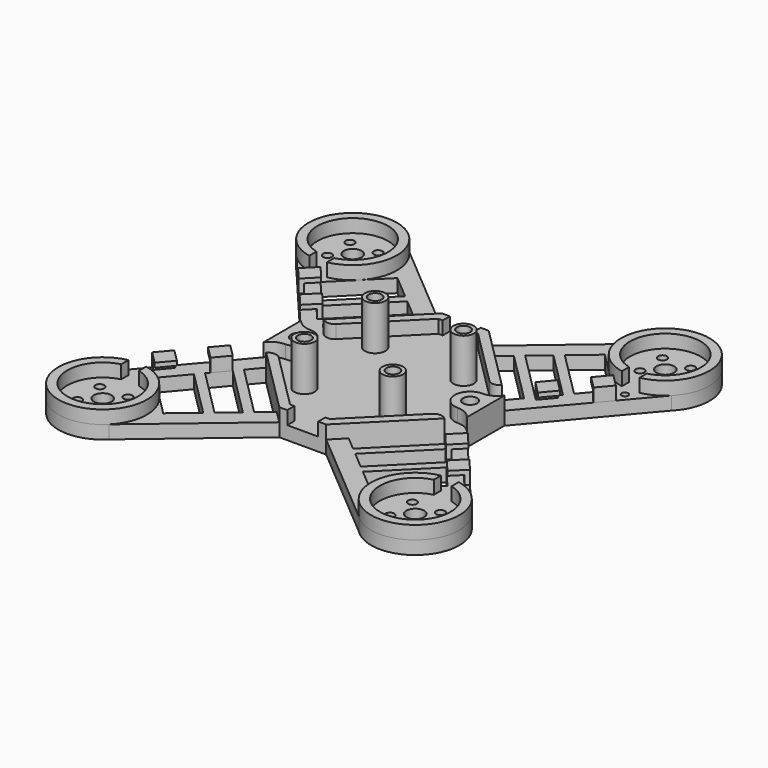
from build123d import *

# Parameters (mm, degrees)
PAD_DEPTH       = 3
SKETCH002_R     = 2
SKETCH002_R_2   = 1
POCKET_DEPTH    = 3
POCKET001_DEPTH = 3
SKETCH005_R     = 2.33
PAD001_DEPTH    = 10
PAD002_DEPTH    = 3
SKETCH009_R     = 10
SKETCH009_R_2   = 8
PAD003_DEPTH    = 3
SKETCH011_R     = 0.75
POCKET002_DEPTH = 3
PAD004_DEPTH    = 3
SKETCH007_R     = 1.5
POCKET003_DEPTH = 7
POCKET004_DEPTH = 6
SKETCH014_W     = 3.5
SKETCH014_H     = 2
POCKET005_DEPTH = 3
POCKET006_DEPTH = 3
SKETCH013_W     = 6
SKETCH013_H     = 2
POCKET007_DEPTH = 3
SKETCH012_W     = 4.5
SKETCH012_H     = 2
POCKET008_DEPTH = 3


with BuildPart() as pocket008:
    # Sketch001 → Pad (new body)
    with BuildSketch(Plane.XY):
        with BuildLine():
            Line((28.284271, 42.426407), (5.303301, 22.98097))
            Line((5.303301, 22.98097), (0, 22.98097))
            Line((0, 22.98097), (0, 0))
            Line((0, 0), (22.98097, 0))
            Line((22.98097, 0), (22.98097, 5.303301))
            Line((22.98097, 5.303301), (42.426407, 28.284271))
            ThreePointArc((42.426407, 28.284271), (42.426407, 42.426407), (28.284271, 42.426407))
        make_face()
    extrude(amount=PAD_DEPTH)

    # Sketch002 → Pocket (cut)
    with BuildSketch(Plane.XY.offset(3)):
        with Locations((35.355339, 35.355339)):
            Circle(SKETCH002_R)
        with Locations((38.53732, 38.53732)):
            Circle(SKETCH002_R_2)
        with Locations((32.173359, 38.53732)):
            Circle(SKETCH002_R_2)
        with Locations((32.173359, 32.173359)):
            Circle(SKETCH002_R_2)
        with Locations((38.53732, 32.173359)):
            Circle(SKETCH002_R_2)
    extrude(amount=-POCKET_DEPTH, mode=Mode.SUBTRACT)

    # Sketch003 → Pocket001 (cut)
    with BuildSketch(Plane.XY.offset(3)):
        Polygon((20.152543, 8.131728), (8.131728, 20.152543), (11.185273, 22.736312), (22.736312, 11.185273), align=None)
        Polygon((24.028197, 12.712046), (12.712046, 24.028197), (16.528977, 27.257908), (27.257908, 16.528977), align=None)
        Polygon((28.549792, 18.05575), (18.05575, 28.549792), (23.452375, 33.116168), (33.116168, 23.452375), align=None)
    extrude(amount=-POCKET001_DEPTH, mode=Mode.SUBTRACT)

    # Sketch005 → Pad001 (new body)
    with BuildSketch(Plane.XY.offset(3)):
        with Locations((10, 10)):
            Circle(SKETCH005_R)
    extrude(amount=PAD001_DEPTH)

    # Sketch004 → Pad002 (new body)
    with BuildSketch(Plane.XY.offset(3)):
        with BuildLine():
            Line((5.303301, 22.98097), (20.152543, 8.131728))
            ThreePointArc((17.324116, 8.131728), (18.73833, 7.545942), (20.152543, 8.131728))
            Line((17.324116, 8.131728), (4.474874, 20.98097))
            Line((0, 20.98097), (4.474874, 20.98097))
            Line((0, 22.98097), (0, 20.98097))
            Line((5.303301, 22.98097), (0, 22.98097))
        make_face()
        with BuildLine():
            Line((22.98097, 5.303301), (22.98097, 0))
            Line((22.98097, 0), (20.98097, 0))
            Line((20.98097, 0), (17.98097, 0))
            Line((17.98097, 0), (15.98097, 0))
            ThreePointArc((19.48097, 3.5), (17.006097, 2.474874), (15.98097, 0))
            ThreePointArc((19.48097, 3.5), (21.449594, 3.977326), (22.98097, 5.303301))
        make_face()
    extrude(amount=PAD002_DEPTH)

    # Sketch009 → Pad003 (new body)
    with BuildSketch(Plane.XY.offset(3)):
        with Locations((35.355339, 35.355339)):
            Circle(SKETCH009_R)
        with Locations((35.355339, 35.355339)):
            Circle(SKETCH009_R_2, mode=Mode.SUBTRACT)
    extrude(amount=PAD003_DEPTH)

    # Sketch011 → Pocket002 (cut)
    with BuildSketch(Plane.XY.offset(3)):
        with Locations((35.732096, 23.469065)):
            Circle(SKETCH011_R)
    extrude(amount=-POCKET002_DEPTH, mode=Mode.SUBTRACT)

    # Sketch006 → Pad004 (new body)
    with BuildSketch(Plane.XY.offset(3)):
        Polygon((35.944595, 20.623948), (33.360826, 17.570403), (30.532399, 20.39883), (33.116168, 23.452375), align=None)
        Polygon((24.041631, 12.727922), (26.870058, 9.899495), (29.453827, 12.95304), (26.6254, 15.781467), align=None)
    extrude(amount=PAD004_DEPTH)

    # Sketch007 → Pocket003 (cut)
    with BuildSketch(Plane.XY.offset(13)):
        with Locations((10, 10)):
            Circle(SKETCH007_R)
    extrude(amount=-POCKET003_DEPTH, mode=Mode.SUBTRACT)

    # Sketch008 → Pocket004 (cut)
    with BuildSketch(Plane.XY.offset(6)):
        with BuildLine():
            ThreePointArc((21.08097, 0), (19.48097, 1.6), (17.88097, 0))
            Line((21.08097, 0), (17.88097, 0))
        make_face()
    extrude(amount=-POCKET004_DEPTH, mode=Mode.SUBTRACT)

    # Sketch014 → Pocket005 (cut)
    with BuildSketch(Plane.XY.offset(6)):
        with Locations((1.75, 21.98097)):
            Rectangle(SKETCH014_W, SKETCH014_H)
    extrude(amount=-POCKET005_DEPTH, mode=Mode.SUBTRACT)

    # Sketch010 → Pocket006 (cut)
    with BuildSketch(Plane.XY.offset(6)):
        with BuildLine():
            ThreePointArc((33.355339, 27.609372), (35.355339, 27.355339), (37.355339, 27.609372))
            Line((37.355339, 27.609372), (37.355339, 25.55738))
            ThreePointArc((33.355339, 25.55738), (35.355339, 25.355339), (37.355339, 25.55738))
            Line((33.355339, 27.609372), (33.355339, 25.55738))
        make_face()
    extrude(amount=-POCKET006_DEPTH, mode=Mode.SUBTRACT)

    # Sketch013 → Pocket007 (cut)
    with BuildSketch(Plane(origin=(10.777283, -9.119239, 0), x_dir=(0.645942, 0.763386, 0), z_dir=(0.763386, -0.645942, 0))):
        with Locations((27, 4)):
            Rectangle(SKETCH013_W, SKETCH013_H)
    extrude(amount=-POCKET007_DEPTH, mode=Mode.SUBTRACT)

    # Sketch012 → Pocket008 (cut)
    with BuildSketch(Plane(origin=(7.734285, -6.544395, 0), x_dir=(-0.645942, -0.763386, 0), z_dir=(-0.763386, 0.645942, 0))):
        with Locations((-37.25, 4)):
            Rectangle(SKETCH012_W, SKETCH012_H)
    extrude(amount=-POCKET008_DEPTH, mode=Mode.SUBTRACT)


with BuildPart() as part_mirroring:
    # Part__Mirroring: instance of Pocket008
    add(pocket008.part.mirror(Plane(origin=(0, 0, 0), x_dir=(1, 0, 0), z_dir=(0, 1, 0))))


with BuildPart() as fusion:
    # Fusion base: copy of Pocket008
    add(pocket008.part)

    # Fusion: union Part__Mirroring
    add(part_mirroring.part)


with BuildPart() as part_mirroring001:
    # Part__Mirroring001: instance of Fusion
    add(fusion.part.mirror(Plane(origin=(0, 0, 0), x_dir=(0, -1, 0), z_dir=(1, 0, 0))))


with BuildPart() as fusion001:
    # Fusion001 base: copy of Fusion
    add(fusion.part)

    # Fusion001: union Part__Mirroring001
    add(part_mirroring001.part)


solid = fusion001.part
